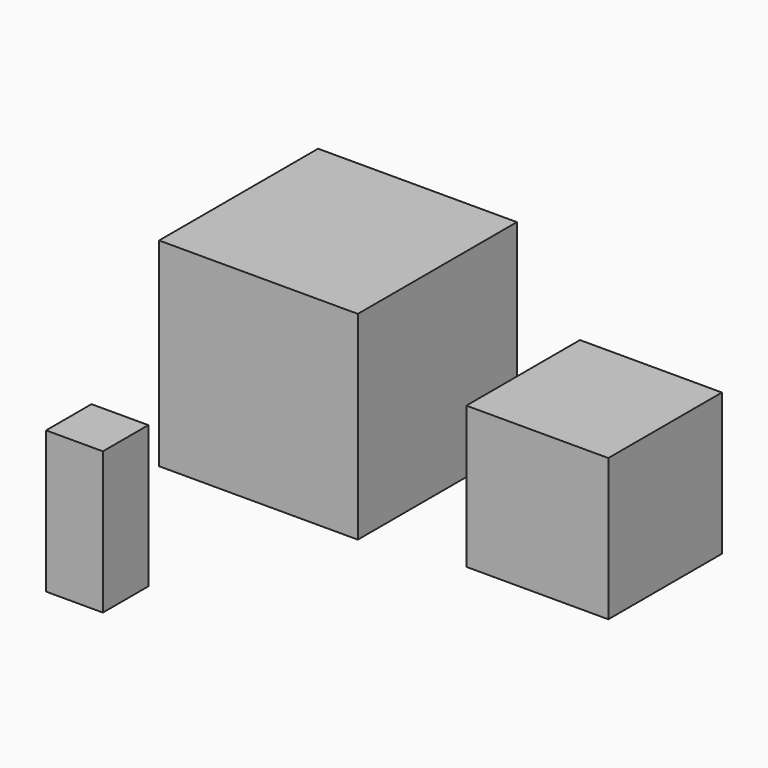
from build123d import *

# Parameters (mm, degrees)
F0_W     = 25
F0_H     = 25
F1_DEPTH = 25
F2_W     = 35
F2_H     = 35
F3_DEPTH = 35
F4_W     = 10
F4_H     = 10
F5_DEPTH = 25


with BuildPart() as f1:
    # F0 (on Top) → F1 (new body)
    with BuildSketch(Plane.XY):
        with Locations((2.228773, 2.056592)):
            Rectangle(F0_W, F0_H)
    extrude(amount=F1_DEPTH)


with BuildPart() as f3:
    # F2 (on Top) → F3 (new body)
    with BuildSketch(Plane.XY):
        with Locations((-44.482607, 4.062314)):
            Rectangle(F2_W, F2_H)
    extrude(amount=F3_DEPTH)


with BuildPart() as f5:
    # F4 (on Top) → F5 (new body)
    with BuildSketch(Plane.XY):
        with Locations((-45.791328, -47.299282)):
            Rectangle(F4_W, F4_H)
    extrude(amount=F5_DEPTH)


solid = Compound([f1.part, f3.part, f5.part])
